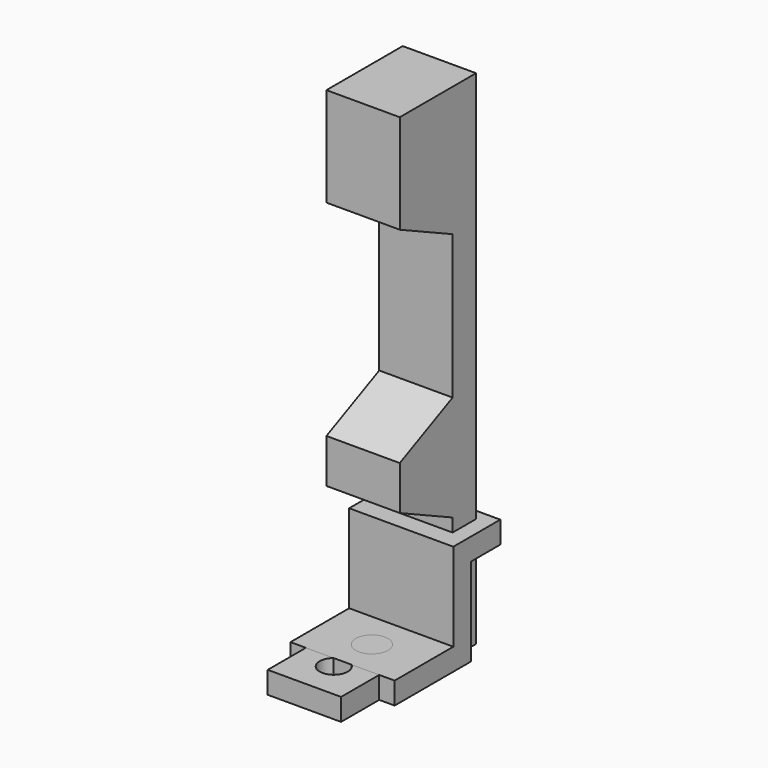
from build123d import *

# Parameters (mm, degrees)
SKETCH_W          = 10
SKETCH_H          = 13
PAD_DEPTH         = 68.5
SKETCH001_W       = 10
SKETCH001_H       = 3
PAD001_DEPTH      = 10
SKETCH002_R       = 1.925
HOLE_DEPTH        = 8.843343
HOLE_TIPS_R       = 1.925
POCKET_DEPTH      = 10.001
SKETCH004_R       = 1.925
HOLE001_DEPTH     = 25
PAD002_DEPTH      = 15
SKETCH006_W       = 5
SKETCH006_H       = 3
PAD003_DEPTH      = 5
PAD003_DEPTH_BACK = 9.2
SKETCH007_W       = 14.2
SKETCH007_H       = 3
PAD004_DEPTH      = 10
SKETCH008_R       = 2.2
HOLE002_DEPTH     = 25


with BuildPart() as body1:
    # Sketch → Pad (new body)
    with BuildSketch(Plane.XY):
        Rectangle(SKETCH_W, SKETCH_H)
    extrude(amount=PAD_DEPTH)

    # Sketch001 (on Face3 of Pad) → Pad001 (join)
    with BuildSketch(Plane.XZ.offset(6.5)):
        with Locations((0, 1.5)):
            Rectangle(SKETCH001_W, SKETCH001_H)
    extrude(amount=PAD001_DEPTH)

    # Sketch002 (on Face1 of Pad001) → Hole (cut)
    with BuildSketch(Plane(origin=(0, 6.5, 0), x_dir=(-1, 0, 0), z_dir=(0, 1, 0))):
        with Locations((0, 58.15)):
            Circle(SKETCH002_R)
        with Locations((0, 23.9)):
            Circle(SKETCH002_R)
    extrude(amount=-HOLE_DEPTH, mode=Mode.SUBTRACT)

    # Hole tips → Hole tip 1 section 0
    with BuildSketch(Plane(origin=(0, -2.343343, 0), x_dir=(-1, 0, 0), z_dir=(0, 1, 0)), mode=Mode.PRIVATE) as hole_tip_1_s0:
        with Locations((0, 58.15)):
            Circle(HOLE_TIPS_R)
    loft([hole_tip_1_s0.sketch, Vertex(0, -3.5, 58.15)], mode=Mode.SUBTRACT)

    # Hole tips → Hole tip 2 section 0
    with BuildSketch(Plane(origin=(0, -2.343343, 0), x_dir=(-1, 0, 0), z_dir=(0, 1, 0)), mode=Mode.PRIVATE) as hole_tip_2_s0:
        with Locations((0, 23.9)):
            Circle(HOLE_TIPS_R)
    loft([hole_tip_2_s0.sketch, Vertex(0, -3.5, 23.9)], mode=Mode.SUBTRACT)

    # Sketch003 (on Face2 of Hole) → Pocket (cut, through all)
    with BuildSketch(Plane(origin=(-5, 0, 0), x_dir=(0, -1, 0), z_dir=(-1, 0, 0))):
        Polygon((6.5, 55), (-2.5, 50.803231), (-2.5, 31.196769), (6.5, 27), align=None)
        Polygon((6.5, 21), (-2.5, 16.803231), (-2.5, 3), (6.5, 3), align=None)
    extrude(amount=-POCKET_DEPTH, mode=Mode.SUBTRACT)

    # Sketch004 (on Face21 of Pocket) → Hole001 (cut)
    with BuildSketch(Plane.XY.offset(3)):
        with Locations((0, -11.5)):
            Circle(SKETCH004_R)
    extrude(amount=-HOLE001_DEPTH, mode=Mode.SUBTRACT)


with BuildPart() as body2:
    # Sketch005 → Pad002 (new body)
    with BuildSketch(Plane.XY):
        Polygon((-2.1, 8), (-2.1, 3), (-7.1, 3), (-7.1, 0), (7.1, 0), (7.1, 3), (2.1, 3), (2.1, 8), align=None)
    extrude(amount=PAD002_DEPTH)

    # Sketch006 (on Face7 of Pad002) → Pad003 (join, two sides)
    with BuildSketch(Plane.YZ.offset(2.1)) as pad003_sk:
        with Locations((5.5, 13.5)):
            Rectangle(SKETCH006_W, SKETCH006_H)
    extrude(amount=PAD003_DEPTH)
    extrude(pad003_sk.sketch, amount=-PAD003_DEPTH_BACK)

    # Sketch007 (on Face7 of Pad003) → Pad004 (join)
    with BuildSketch(Plane.XZ):
        with Locations((0, 1.5)):
            Rectangle(SKETCH007_W, SKETCH007_H)
    extrude(amount=PAD004_DEPTH)

    # Sketch008 (on Face24 of Pad004) → Hole002 (cut)
    with BuildSketch(Plane.XY.offset(3)):
        with Locations((0, -5)):
            Circle(SKETCH008_R)
    extrude(amount=-HOLE002_DEPTH, mode=Mode.SUBTRACT)


solid = Compound([body1.part, body2.part])
